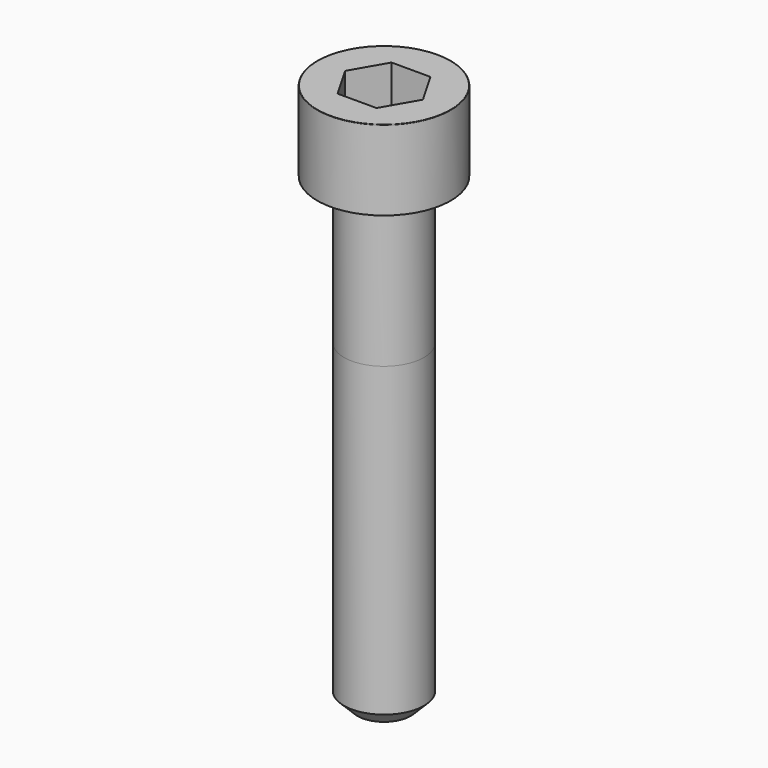
from build123d import *

# Parameters (mm, degrees)
POCKET_DEPTH = 5.06


with BuildPart() as part:
    # Sketch → Revolve (revolve)
    with BuildSketch(Plane.YZ):
        with BuildLine():
            Line((2.999, 0), (5, 0))
            Line((5, 0), (5, 5.97229))
            ThreePointArc((5, 5.97229), (4.991884, 5.991884), (4.97229, 6))
            Line((4.97229, 6), (0, 6))
            Line((0, -35), (0, 6))
            Line((2, -35), (0, -35))
            Line((3, -34), (2, -35))
            Line((3, -11), (3, -34))
            Line((2.999, 0), (3, -11))
        make_face()
    revolve(axis=Axis((0, 0, 0), (0, 0, 1)))

    # Sketch001 → Pocket (cut)
    with BuildSketch(Plane.XY.offset(6)):
        Polygon((2.921392, 0), (1.460696, 2.53), (-1.460696, 2.53), (-2.921392, 0), (-1.460696, -2.53), (1.460696, -2.53), align=None)
    extrude(amount=-POCKET_DEPTH, mode=Mode.SUBTRACT)


solid = part.part
